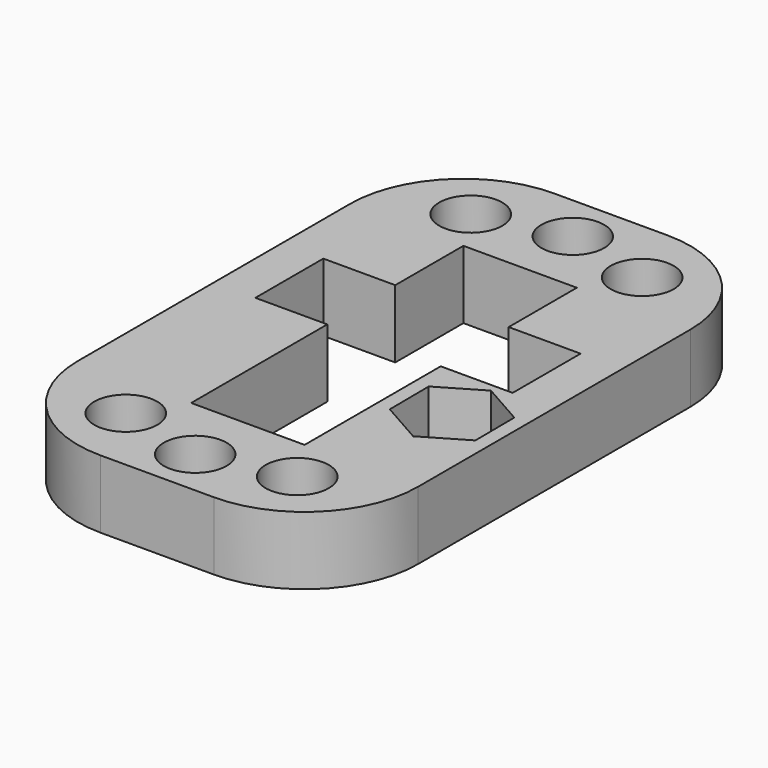
from build123d import *

# Parameters (mm, degrees)
F1_DEPTH = 3.81
F2_W     = 6.35
F2_H     = 4.7692152426
F2_H_2   = 4.7557847574
F2_H_3   = 9.525
F2_W_2   = 4.0261267766
F3_DEPTH = 25.4
F4_R     = 1.7598288085
F4_R_2   = 1.7653
F5_DEPTH = 25.4
F7_DEPTH = 25.4


with BuildPart() as f1:
    # F0 (on Top) → F1 (new body)
    with BuildSketch(Plane.XY):
        with BuildLine():
            Line((-3.175, -15.875), (3.175, -15.875))
            ThreePointArc((3.175, -15.875), (7.6651280605, -14.0151280605), (9.525, -9.525))
            Line((9.525, -9.525), (9.525, 9.525))
            ThreePointArc((9.525, 9.525), (7.6651280605, 14.0151280605), (3.175, 15.875))
            Line((3.175, 15.875), (-3.175, 15.875))
            ThreePointArc((-3.175, 15.875), (-7.6651280605, 14.0151280605), (-9.525, 9.525))
            Line((-9.525, 9.525), (-9.525, -9.525))
            ThreePointArc((-9.525, -9.525), (-7.6651280605, -14.0151280605), (-3.175, -15.875))
        make_face()
        with BuildLine():
            Line((-3.175, -15.875), (3.175, -15.875))
            ThreePointArc((3.175, -15.875), (7.6651280605, -14.0151280605), (9.525, -9.525))
            Line((9.525, -9.525), (9.525, 9.525))
            ThreePointArc((9.525, 9.525), (7.6651280605, 14.0151280605), (3.175, 15.875))
            Line((3.175, 15.875), (-3.175, 15.875))
            ThreePointArc((-3.175, 15.875), (-7.6651280605, 14.0151280605), (-9.525, 9.525))
            Line((-9.525, 9.525), (-9.525, -9.525))
            ThreePointArc((-9.525, -9.525), (-7.6651280605, -14.0151280605), (-3.175, -15.875))
        make_face()
    extrude(amount=F1_DEPTH)

    # F2 (on face) → F3 (cut)
    with BuildSketch(Plane.XY.offset(3.81)):
        with Locations((0, 7.1403923787)):
            Rectangle(F2_W, F2_H)
        with Locations((0, 2.3778923787)):
            Rectangle(F2_W, F2_H_2)
        with Locations((0, -4.7625)):
            Rectangle(F2_W, F2_H_3)
        with Locations((0, 7.1403923787)):
            Rectangle(F2_W, F2_H)
        with Locations((-5.1880633883, 2.3778923787)):
            Rectangle(F2_W_2, F2_H_2)
        with Locations((5.1880633883, 2.3778923787)):
            Rectangle(F2_W_2, F2_H_2)
    extrude(amount=-F3_DEPTH, mode=Mode.SUBTRACT)

    # F4 (on face) → F5 (cut)
    with BuildSketch(Plane.XY.offset(3.81)):
        with Locations((0, 13.2097881287)):
            Circle(F4_R)
        with Locations((4.7985878773, 12.0691694319)):
            Circle(F4_R_2)
        with Locations((-4.7985878773, 12.0691694319)):
            Circle(F4_R_2)
        with Locations((-4.7985878773, -12.0691694319)):
            Circle(F4_R_2)
        with Locations((0, -13.2097881287)):
            Circle(F4_R)
        with Locations((4.7985878773, -12.0691694319)):
            Circle(F4_R_2)
    extrude(amount=-F5_DEPTH, mode=Mode.SUBTRACT)

    # F6 (on face) → F7 (cut)
    with BuildSketch(Plane.XY.offset(3.81)):
        Polygon((6.372133691, -5.9245415708), (8.7422396946, -4.5306024468), (8.7201060036, -1.7810608759), (6.327866309, -0.4254584292), (3.9577603054, -1.8193975532), (3.9798939964, -4.5689391241), align=None)
    extrude(amount=-F7_DEPTH, mode=Mode.SUBTRACT)


solid = f1.part
